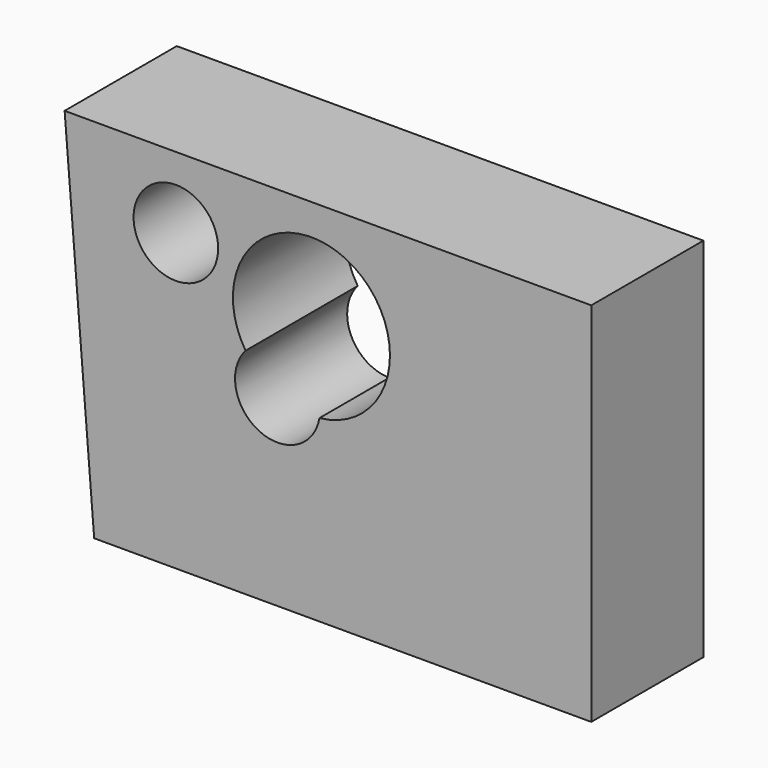
from build123d import *

# Parameters (mm, degrees)
F0_R     = 7.664283
F1_DEPTH = 25.4


with BuildPart() as f1:
    # F0 (on Front) → F1 (new body)
    with BuildSketch(Plane.XZ):
        Polygon((41.265003, 42.209998), (-54.18, 42.209998), (-48.824999, -24.255), (41.265003, -24.255), align=None)
        with BuildLine():
            ThreePointArc((-21.381332, 14.608613), (-13.495042, 36.008892), (4.780889, 22.364998))
            ThreePointArc((4.780889, 22.364998), (1.11502, 12.830925), (-7.993936, 8.208795))
            ThreePointArc((-7.993936, 8.208795), (-18.911873, 2.57227), (-21.381332, 14.608613))
        make_face(mode=Mode.SUBTRACT)
        with Locations((-34.019999, 29.295001)):
            Circle(F0_R, mode=Mode.SUBTRACT)
    extrude(amount=F1_DEPTH)


solid = f1.part
